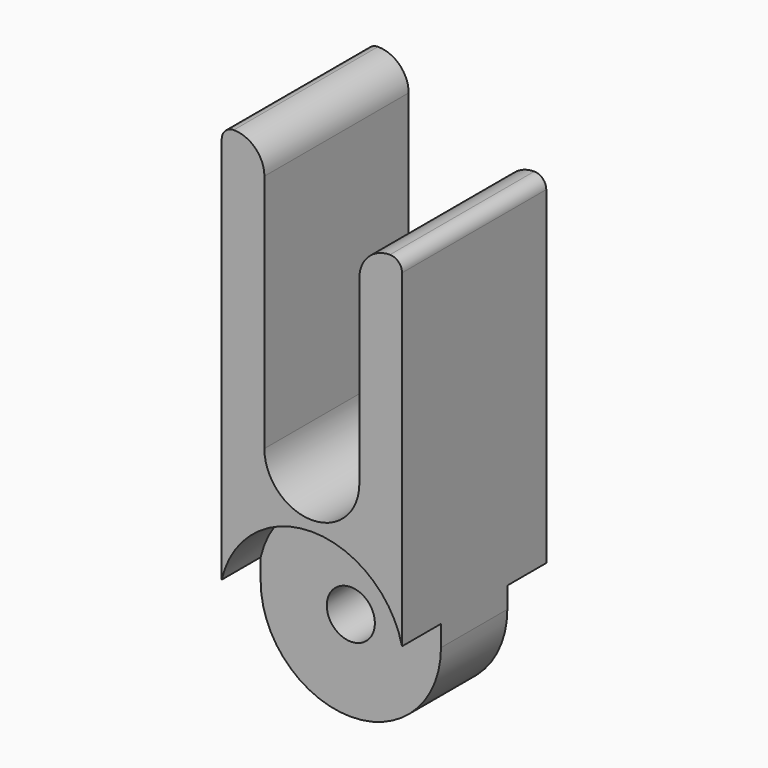
from build123d import *

# Parameters (mm, degrees)
F1_DEPTH = 7.5
F2_DEPTH = 3.45
F4_D     = 4


with BuildPart() as f1:
    # F0 (on Front) → F1 (new body, symmetric)
    with BuildSketch(Plane.XZ):
        with BuildLine():
            Line((-7.5, 34), (-7.5, 1.74356))
            ThreePointArc((-7.5, 1.74356), (-4.788768, 6.029735), (0, 7.7))
            ThreePointArc((0, 7.7), (4.787697, 6.030585), (7.49938, 1.746224))
            Line((7.49938, 1.746224), (7.49938, 29.096422))
            ThreePointArc((7.49938, 29.096422), (7.206487, 29.803529), (6.49938, 30.096422))
            ThreePointArc((6.49938, 30.096422), (4.696258, 29.349544), (3.94938, 27.546422))
            Line((3.94938, 27.546422), (3.95, 12.5))
            ThreePointArc((3.95, 12.5), (0, 8.55), (-3.95, 12.5))
            Line((-3.95, 12.5), (-3.95, 32.45))
            ThreePointArc((-3.95, 32.45), (-4.696878, 34.253122), (-6.5, 35))
            ThreePointArc((-6.5, 35), (-7.207107, 34.707107), (-7.5, 34))
        make_face()
    extrude(amount=F1_DEPTH, both=True)

    # F0 (on Front) → F2 (join, symmetric)
    with BuildSketch(Plane.XZ):
        with BuildLine():
            Line((0, 0), (-7.5, 0))
            ThreePointArc((-7.5, 0), (-0.00031, -7.49969), (7.49938, 0))
            Line((7.49938, 0), (0, 0))
        make_face()
        with BuildLine():
            Line((-7.5, 1.74356), (-7.5, 0))
            Line((-7.5, 0), (0, 0))
            Line((0, 0), (0, 7.7))
            ThreePointArc((0, 7.7), (-4.788768, 6.029735), (-7.5, 1.74356))
        make_face()
        with BuildLine():
            Line((0, 0), (7.49938, 0))
            Line((7.49938, 0), (7.49938, 1.746224))
            ThreePointArc((7.49938, 1.746224), (4.787697, 6.030585), (0, 7.7))
            Line((0, 7.7), (0, 0))
        make_face()
    extrude(amount=F2_DEPTH, both=True)

    # F4 (through all)
    with Locations(Plane.XZ.offset(3.45)):
        with Locations((0, 0)):
            Hole(F4_D / 2)


solid = f1.part
